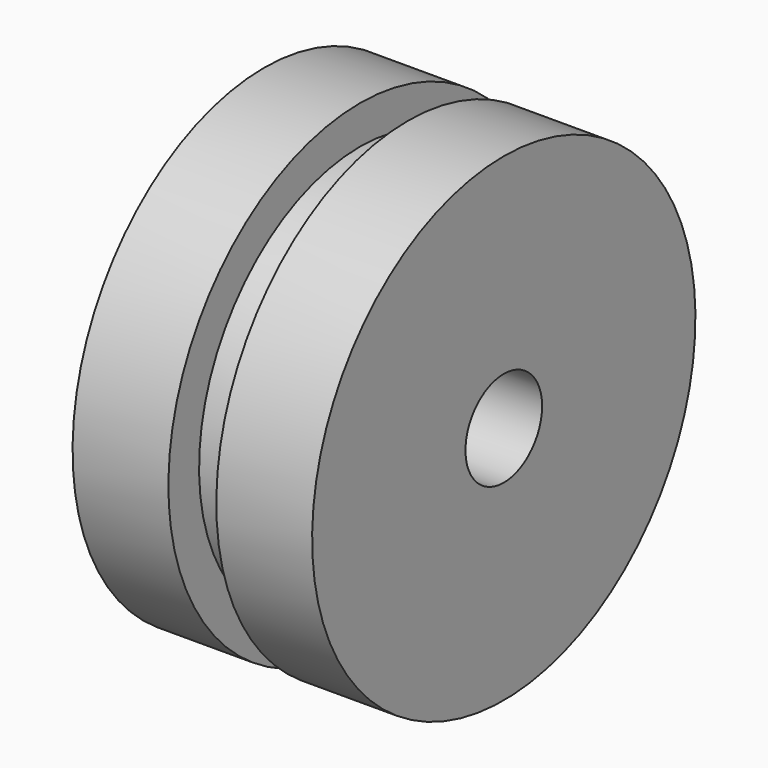
from build123d import *

# Parameters (mm, degrees)
F3_D = 2


with BuildPart() as f1:
    # F0 (on Front) → F1 (revolve)
    with BuildSketch(Plane.XZ):
        Polygon((-2.5, 5), (-2.5, 0), (2.5, 0), (2.5, 5), (0.5, 5), (0.5, 4.2), (-0.5, 4.2), (-0.5, 5), align=None)
    revolve(axis=Axis((0.0154641815, 0, 0), (1, 0, 0)))

    # F3 (through all)
    with Locations(Plane(origin=(-2.5, 0, 0), x_dir=(0, -1, 0), z_dir=(-1, 0, 0))):
        with Locations((0, 0)):
            Hole(F3_D / 2)


solid = f1.part
